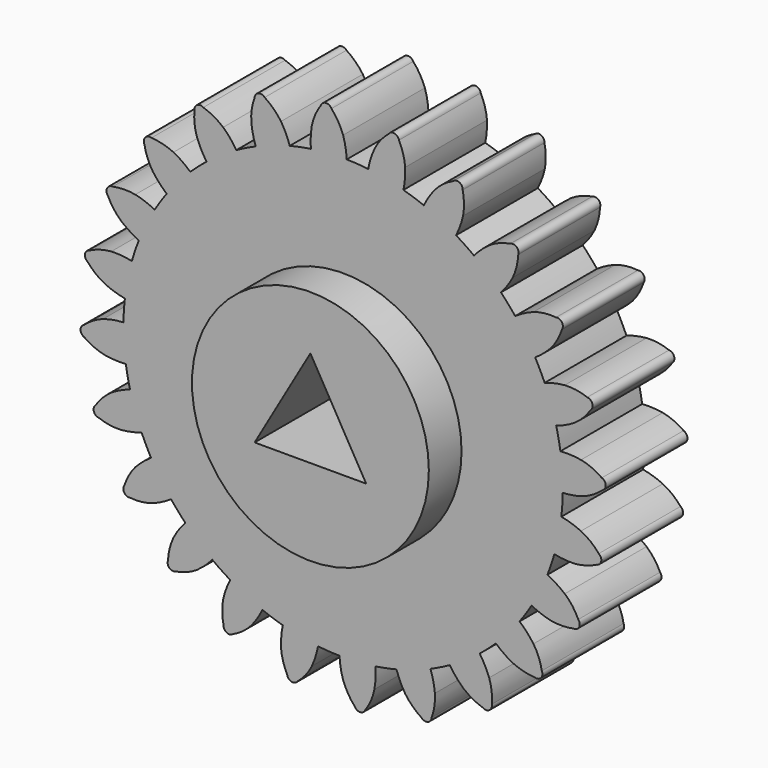
from build123d import *

# Parameters (mm, degrees)
F0_R     = 28.969346
F1_DEPTH = 25
F2_COUNT = 24
F3_DEPTH = 35


with BuildPart() as f1:
    # F0 (on Front) → F1 (new body)
    with BuildSketch(Plane.XZ):
        with BuildLine():
            ThreePointArc((-7.884268, 53.13929), (-35.088425, -40.678597), (53.721, 0))
            ThreePointArc((53.721, 0), (38.296609, 37.673805), (0.880747, 53.71378))
            ThreePointArc((0.880747, 53.71378), (-3.513522, 53.605979), (-7.884268, 53.13929))
        make_face()
        Circle(F0_R, mode=Mode.SUBTRACT)
        with BuildLine():
            ThreePointArc((-7.884268, 53.13929), (-3.513522, 53.605979), (0.880747, 53.71378))
            ThreePointArc((0.880747, 53.71378), (0.596196, 56.221558), (0, 58.674))
            ThreePointArc((0, 58.674), (-1.199839, 61.191861), (-2.856441, 63.435721))
            ThreePointArc((-2.856441, 63.435721), (-4.209374, 64.222643), (-5.44802, 63.26586))
            ThreePointArc((-5.44802, 63.26586), (-6.825674, 60.837164), (-7.658494, 58.172036))
            ThreePointArc((-7.658494, 58.172036), (-7.929482, 55.662756), (-7.884268, 53.13929))
        make_face()
    extrude(amount=F1_DEPTH)



with BuildPart() as f2_1:
    # F2: instance of F1
    add(f1.part.rotate(Axis((0, 0, 0), (0, 1, 0)), 1 * 360 / F2_COUNT))


with BuildPart() as f2_2:
    # F2: instance of F1
    add(f1.part.rotate(Axis((0, 0, 0), (0, 1, 0)), 2 * 360 / F2_COUNT))


with BuildPart() as f2_3:
    # F2: instance of F1
    add(f1.part.rotate(Axis((0, 0, 0), (0, 1, 0)), 3 * 360 / F2_COUNT))


with BuildPart() as f2_4:
    # F2: instance of F1
    add(f1.part.rotate(Axis((0, 0, 0), (0, 1, 0)), 4 * 360 / F2_COUNT))


with BuildPart() as f2_5:
    # F2: instance of F1
    add(f1.part.rotate(Axis((0, 0, 0), (0, 1, 0)), 5 * 360 / F2_COUNT))


with BuildPart() as f2_6:
    # F2: instance of F1
    add(f1.part.rotate(Axis((0, 0, 0), (0, 1, 0)), 6 * 360 / F2_COUNT))


with BuildPart() as f2_7:
    # F2: instance of F1
    add(f1.part.rotate(Axis((0, 0, 0), (0, 1, 0)), 7 * 360 / F2_COUNT))


with BuildPart() as f2_8:
    # F2: instance of F1
    add(f1.part.rotate(Axis((0, 0, 0), (0, 1, 0)), 8 * 360 / F2_COUNT))


with BuildPart() as f2_9:
    # F2: instance of F1
    add(f1.part.rotate(Axis((0, 0, 0), (0, 1, 0)), 9 * 360 / F2_COUNT))


with BuildPart() as f2_10:
    # F2: instance of F1
    add(f1.part.rotate(Axis((0, 0, 0), (0, 1, 0)), 10 * 360 / F2_COUNT))


with BuildPart() as f2_11:
    # F2: instance of F1
    add(f1.part.rotate(Axis((0, 0, 0), (0, 1, 0)), 11 * 360 / F2_COUNT))


with BuildPart() as f2_12:
    # F2: instance of F1
    add(f1.part.rotate(Axis((0, 0, 0), (0, 1, 0)), 12 * 360 / F2_COUNT))


with BuildPart() as f2_13:
    # F2: instance of F1
    add(f1.part.rotate(Axis((0, 0, 0), (0, 1, 0)), 13 * 360 / F2_COUNT))


with BuildPart() as f2_14:
    # F2: instance of F1
    add(f1.part.rotate(Axis((0, 0, 0), (0, 1, 0)), 14 * 360 / F2_COUNT))


with BuildPart() as f2_15:
    # F2: instance of F1
    add(f1.part.rotate(Axis((0, 0, 0), (0, 1, 0)), 15 * 360 / F2_COUNT))


with BuildPart() as f2_16:
    # F2: instance of F1
    add(f1.part.rotate(Axis((0, 0, 0), (0, 1, 0)), 16 * 360 / F2_COUNT))


with BuildPart() as f2_17:
    # F2: instance of F1
    add(f1.part.rotate(Axis((0, 0, 0), (0, 1, 0)), 17 * 360 / F2_COUNT))


with BuildPart() as f2_18:
    # F2: instance of F1
    add(f1.part.rotate(Axis((0, 0, 0), (0, 1, 0)), 18 * 360 / F2_COUNT))


with BuildPart() as f2_19:
    # F2: instance of F1
    add(f1.part.rotate(Axis((0, 0, 0), (0, 1, 0)), 19 * 360 / F2_COUNT))


with BuildPart() as f2_20:
    # F2: instance of F1
    add(f1.part.rotate(Axis((0, 0, 0), (0, 1, 0)), 20 * 360 / F2_COUNT))


with BuildPart() as f2_21:
    # F2: instance of F1
    add(f1.part.rotate(Axis((0, 0, 0), (0, 1, 0)), 21 * 360 / F2_COUNT))


with BuildPart() as f2_22:
    # F2: instance of F1
    add(f1.part.rotate(Axis((0, 0, 0), (0, 1, 0)), 22 * 360 / F2_COUNT))


with BuildPart() as f2_23:
    # F2: instance of F1
    add(f1.part.rotate(Axis((0, 0, 0), (0, 1, 0)), 23 * 360 / F2_COUNT))


with BuildPart() as f1_1:
    add(f1.part)

    add(f2_1.part)  # F3 merges F2_1

    add(f2_2.part)  # F3 merges F2_2

    add(f2_3.part)  # F3 merges F2_3

    add(f2_4.part)  # F3 merges F2_4

    add(f2_5.part)  # F3 merges F2_5

    add(f2_6.part)  # F3 merges F2_6

    add(f2_7.part)  # F3 merges F2_7

    add(f2_8.part)  # F3 merges F2_8

    add(f2_9.part)  # F3 merges F2_9

    add(f2_10.part)  # F3 merges F2_10

    add(f2_11.part)  # F3 merges F2_11

    add(f2_12.part)  # F3 merges F2_12

    add(f2_13.part)  # F3 merges F2_13

    add(f2_14.part)  # F3 merges F2_14

    add(f2_15.part)  # F3 merges F2_15

    add(f2_16.part)  # F3 merges F2_16

    add(f2_17.part)  # F3 merges F2_17

    add(f2_18.part)  # F3 merges F2_18

    add(f2_19.part)  # F3 merges F2_19

    add(f2_20.part)  # F3 merges F2_20

    add(f2_21.part)  # F3 merges F2_21

    add(f2_22.part)  # F3 merges F2_22

    add(f2_23.part)  # F3 merges F2_23
    # F0 (on Front) → F3 (join)
    with BuildSketch(Plane.XZ):
        Circle(F0_R)
        Polygon((-13.640752, -7.875492), (0, 15.750984), (13.640752, -7.875492), align=None, mode=Mode.SUBTRACT)
    extrude(amount=F3_DEPTH)


solid = f1_1.part
